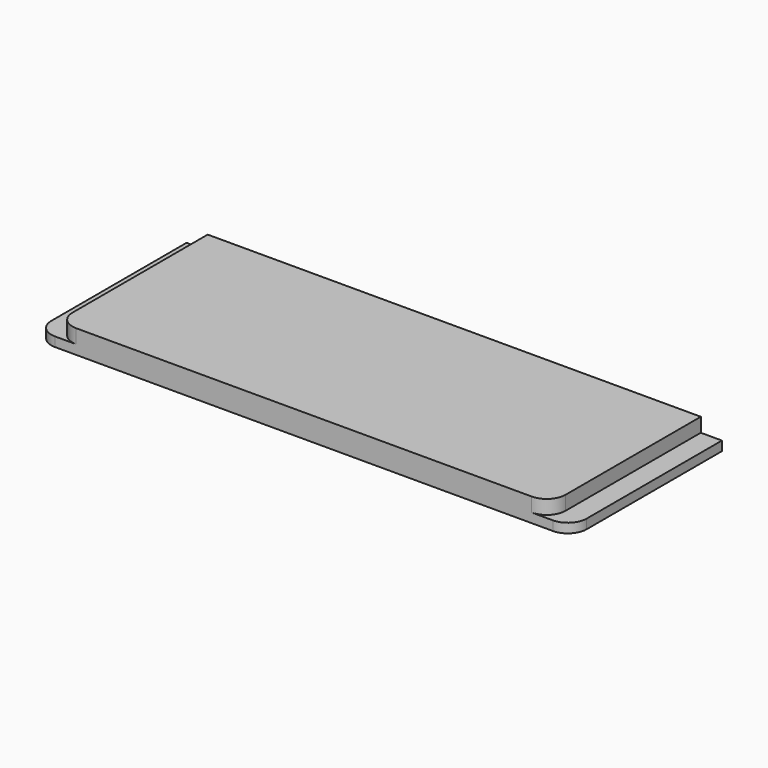
from build123d import *

# Parameters (mm, degrees)
F1_DEPTH = 1
F3_DEPTH = 1.5


with BuildPart() as f1:
    # F0 (on Top) → F1 (new body)
    with BuildSketch(Plane.XY):
        with BuildLine():
            ThreePointArc((0, 2), (0.585786, 0.585786), (2, 0))
            Line((2, 0), (55, 0))
            ThreePointArc((55, 0), (56.414214, 0.585786), (57, 2))
            Line((57, 2), (57, 20))
            Line((57, 20), (0, 20))
            Line((0, 20), (0, 2))
        make_face()
    extrude(amount=F1_DEPTH)

    # F2 (on face) → F3 (join)
    with BuildSketch(Plane.XY.offset(1)):
        with BuildLine():
            Line((54.75, 20), (2.25, 20))
            Line((2.25, 20), (2.25, 2))
            ThreePointArc((2.25, 2), (2.835786, 0.585786), (4.25, 0))
            Line((4.25, 0), (52.75, 0))
            ThreePointArc((52.75, 0), (54.164214, 0.585786), (54.75, 2))
            Line((54.75, 2), (54.75, 20))
        make_face()
    extrude(amount=F3_DEPTH)


solid = f1.part
